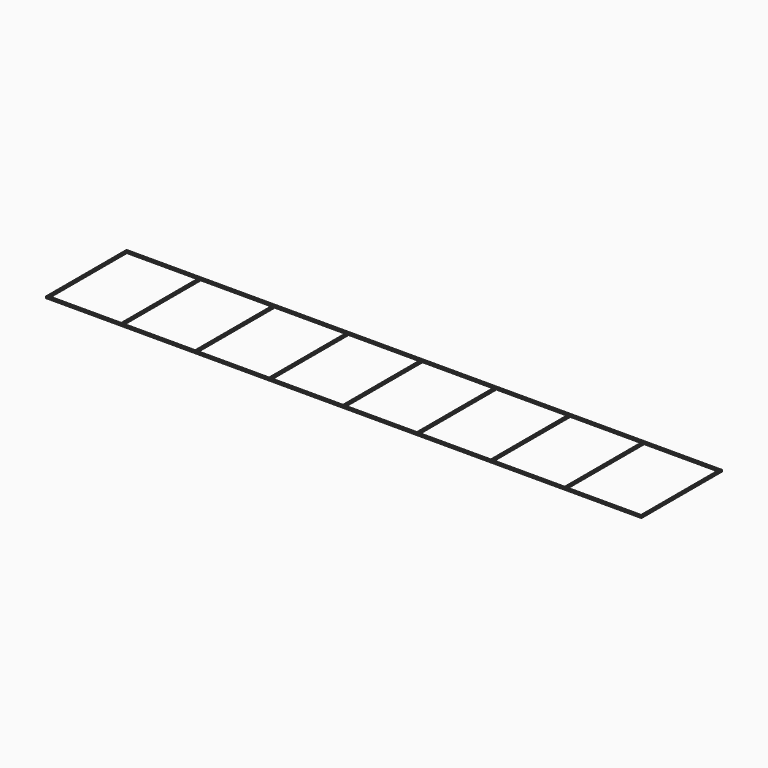
from build123d import *

# Parameters (mm, degrees)
F0_W     = 14500
F0_H     = 2450
F0_W_2   = 40
F0_H_2   = 2370
F1_DEPTH = 40


with BuildPart() as f1:
    # F0 (on Top) → F1 (new body)
    with BuildSketch(Plane.XY):
        Rectangle(F0_W, F0_H)
        Polygon((5390, 1185), (7210, 1185), (7210, -1185), (5390, -1185), (5350, -1185), (3590, -1185), (3550, -1185), (1790, -1185), (1750, -1185), (-10, -1185), (-50, -1185), (-1810, -1185), (-1850, -1185), (-3610, -1185), (-3650, -1185), (-5410, -1185), (-5450, -1185), (-7210, -1185), (-7210, 1185), (-5450, 1185), (-5410, 1185), (-3650, 1185), (-3610, 1185), (-1850, 1185), (-1810, 1185), (-50, 1185), (-10, 1185), (1750, 1185), (1790, 1185), (3550, 1185), (3590, 1185), (5350, 1185), align=None, mode=Mode.SUBTRACT)
        with Locations((-5430, 0)):
            Rectangle(F0_W_2, F0_H_2)
        with Locations((-3630, 0)):
            Rectangle(F0_W_2, F0_H_2)
        with Locations((-1830, 0)):
            Rectangle(F0_W_2, F0_H_2)
        with Locations((-30, 0)):
            Rectangle(F0_W_2, F0_H_2)
        with Locations((1770, 0)):
            Rectangle(F0_W_2, F0_H_2)
        with Locations((3570, 0)):
            Rectangle(F0_W_2, F0_H_2)
        with Locations((5370, 0)):
            Rectangle(F0_W_2, F0_H_2)
    extrude(amount=-F1_DEPTH)


solid = f1.part
